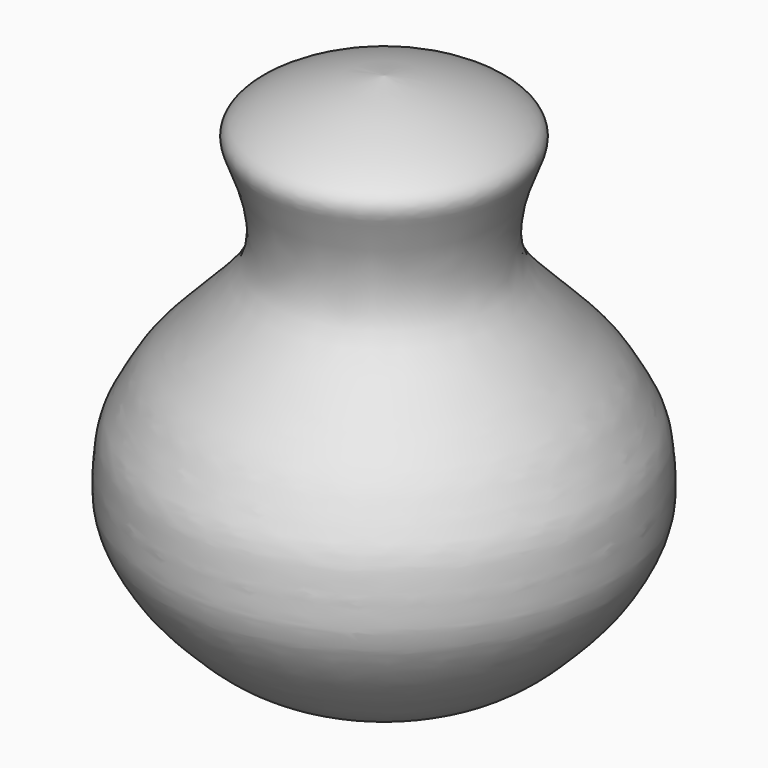
from build123d import *


with BuildPart() as f1:
    # F0 (on Front) → F1 (revolve)
    with BuildSketch(Plane.XZ):
        with BuildLine():
            Line((0, -48.8950014114), (0, 63.3412525058))
            add(Edge.make_bspline(
                [(0, 63.3412525058), (-2.3188268107, 63.0211985487), (-7.3892854189, 62.3213531208), (-16.5554594713, 60.0790786952), (-27.7108644966, 55.0026339158), (-27.7240354299, 50.7682307785), (-26.6213321064, 48.2340938312), (-23.9880254405, 40.9617286562), (-23.2784932048, 36.6019055802), (-22.8447501041, 30.5136441089), (-25.3841166194, 25.090016289), (-29.5868808858, 20.3111386227), (-36.0061602811, 13.7979898811), (-42.2023307485, 7.3988988515), (-45.2957307334, 1.8015421114), (-48.5051102489, -3.6687943504), (-49.2056437934, -11.3646768364), (-49.378691122, -18.7530675661), (-46.6304062149, -25.4843264952), (-42.2519665701, -32.3871606059), (-36.6950399162, -38.0165654326), (-32.0637194756, -42.5133006885), (-26.3000390841, -46.2226262323), (-22.2270838109, -47.5049286971), (-15.4046910978, -48.267497873), (-7.1365497611, -49.0434395443), (-2.3085030657, -48.9430175952), (0, -48.8950014114)],
                knots=[0, 0, 0, 0, 0.041179842, 0.0900458299, 0.1419619534, 0.1693416925, 0.1950765055, 0.2371677807, 0.2706234684, 0.3075193181, 0.3444151637, 0.3829935123, 0.4297337088, 0.4757033406, 0.5141978716, 0.5523020309, 0.5947203313, 0.6362967843, 0.6771990414, 0.7211486926, 0.7641906236, 0.8036457916, 0.8430674426, 0.8745860085, 0.9143934889, 0.9590677337, 1, 1, 1, 1], degree=3))
        make_face()
    revolve(axis=Axis((0, 0, 7.2231255472), (0, 0, -1)))


solid = f1.part
